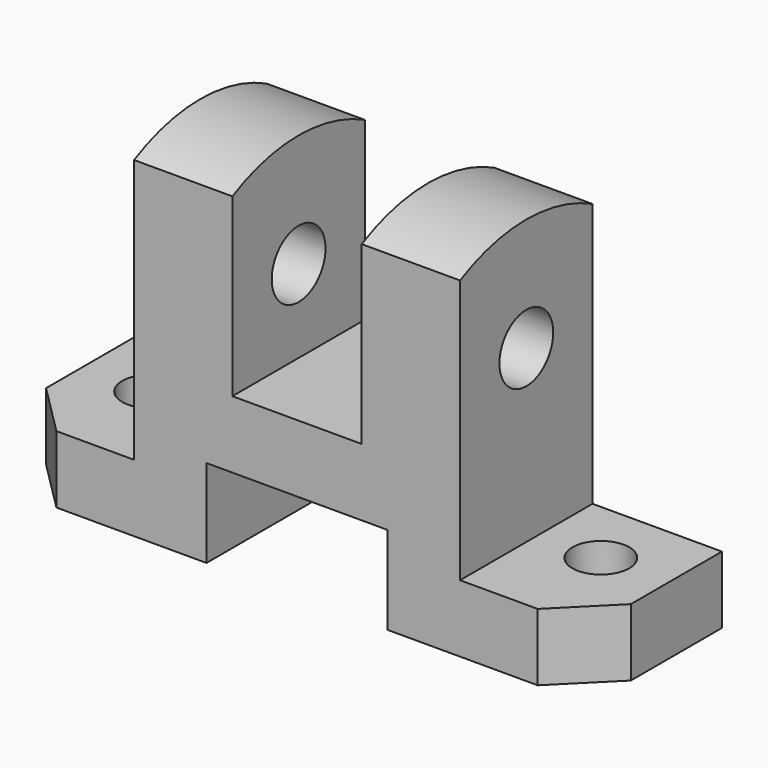
from build123d import *

# Parameters (mm, degrees)
F1_DEPTH  = 32
F2_R      = 5.5
F3_DEPTH  = 13.001
F4_R      = 5.5
F5_DEPTH  = 13.001
F6_R      = 6.5
F7_DEPTH  = 88.001
F9_DEPTH  = 13.001
F11_DEPTH = 13.001
F14_DEPTH = 63
F17_DEPTH = 63
F18_W     = 25
F18_H     = 4.4557750225
F19_DEPTH = 32.001


with BuildPart() as f1:
    # F0 (on Front) → F1 (new body)
    with BuildSketch(Plane.XZ):
        Polygon((0, 13), (0, 0), (39, 0), (39, 17), (74, 17), (74, 0), (113, 0), (113, 13), (88, 13), (88, 64), (69, 64), (69, 30), (44, 30), (44, 64), (25, 64), (25, 13), align=None)
    extrude(amount=F1_DEPTH)

    # F2 (on face) → F3 (cut, through all)
    with BuildSketch(Plane.XY.offset(13)):
        with Locations((100, -13)):
            Circle(F2_R)
    extrude(amount=-F3_DEPTH, mode=Mode.SUBTRACT)

    # F4 (on face) → F5 (cut, through all)
    with BuildSketch(Plane.XY.offset(13)):
        with Locations((13, -13)):
            Circle(F4_R)
    extrude(amount=-F5_DEPTH, mode=Mode.SUBTRACT)

    # F6 (on face) → F7 (cut, through all)
    with BuildSketch(Plane.YZ.offset(88)):
        with Locations((-16, 46)):
            Circle(F6_R)
    extrude(amount=-F7_DEPTH, mode=Mode.SUBTRACT)

    # F8 (on face) → F9 (cut, through all)
    with BuildSketch(Plane.XY.offset(13)):
        Polygon((103, -32), (113, -32), (113, -22), align=None)
    extrude(amount=-F9_DEPTH, mode=Mode.SUBTRACT)

    # F10 (on face) → F11 (cut, through all)
    with BuildSketch(Plane.XY.offset(13)):
        Polygon((10, -32), (0, -22), (0, -32), align=None)
    extrude(amount=-F11_DEPTH, mode=Mode.SUBTRACT)

    # F16 (on face) → F17 (join)
    with BuildSketch(Plane.YZ.offset(88)):
        with BuildLine():
            Line((-32, 64), (0, 64))
            ThreePointArc((0, 64), (-16, 67.8712351675), (-32, 64))
        make_face()
    extrude(amount=-F17_DEPTH)

    # F18 (on Front) → F19 (cut, through all)
    with BuildSketch(Plane.XZ):
        with Locations((56.5, 66.2278875113)):
            Rectangle(F18_W, F18_H)
    extrude(amount=F19_DEPTH, mode=Mode.SUBTRACT)


with BuildPart() as f14:
    # F13 (on face) → F14 (new body)
    with BuildSketch(Plane.YZ.offset(88)):
        with BuildLine():
            Line((-32, 64), (0, 64))
            ThreePointArc((0, 64), (-16, 67.8712351675), (-32, 64))
        make_face()
    extrude(amount=-F14_DEPTH)


solid = f1.part
